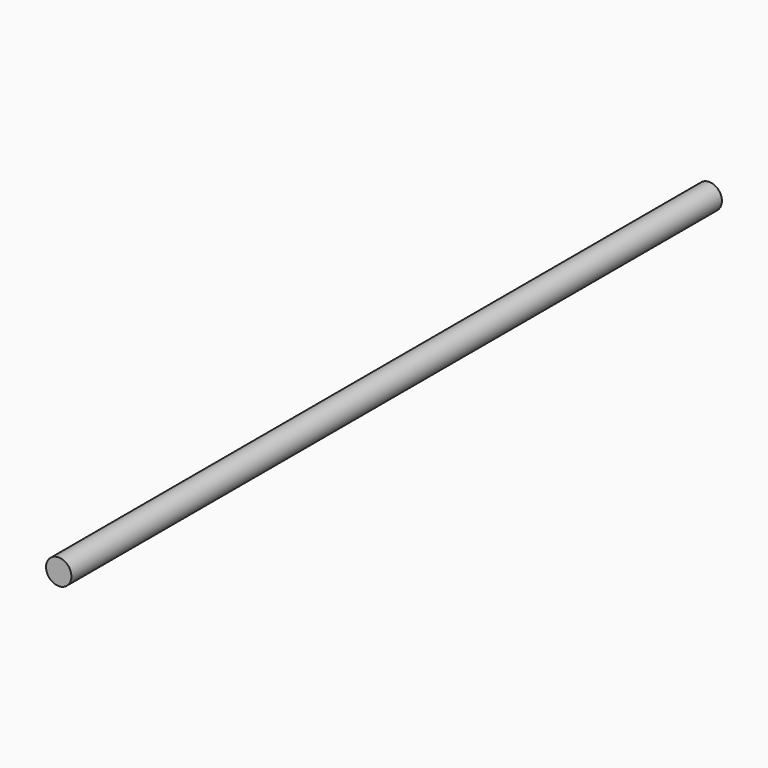
from build123d import *

# Parameters (mm, degrees)
F0_R      = 4
F1_DEPTH  = 300
F1_FACE_R = 4
F2_DEPTH  = 43


with BuildPart() as f1:
    # F0 (on Front) → F1 (new body)
    with BuildSketch(Plane.XZ):
        Circle(F0_R)
    extrude(amount=F1_DEPTH)

    # F1_face (on face) → F2 (cut)
    with BuildSketch(Plane.XZ.offset(300)):
        Circle(F1_FACE_R)
    extrude(amount=-F2_DEPTH, mode=Mode.SUBTRACT)


solid = f1.part
